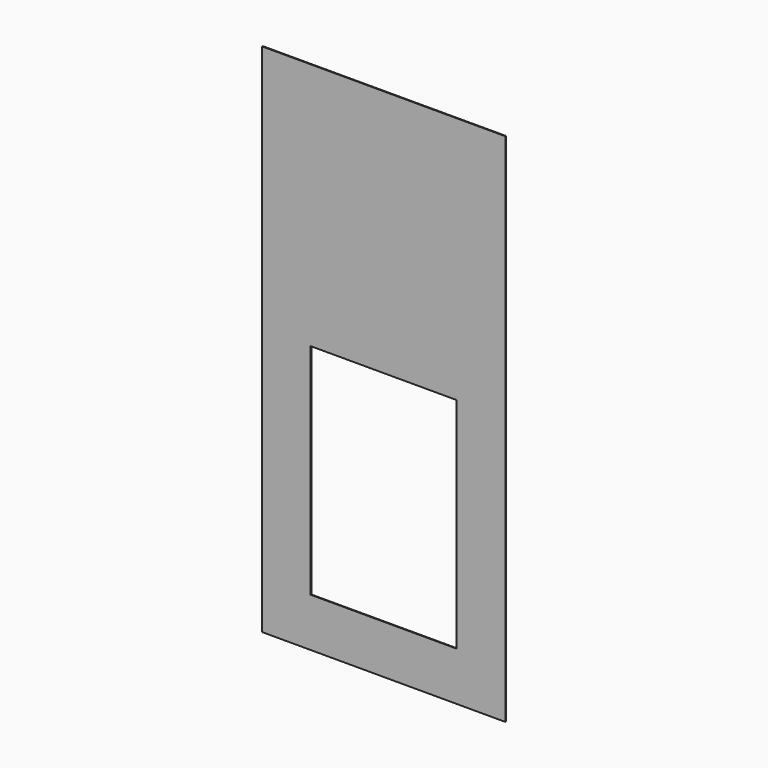
from build123d import *

# Parameters (mm, degrees)
F0_W     = 500
F0_H     = 1060
F1_DEPTH = 1.5
F2_W     = 300
F2_H     = 50
F2_H_2   = 400
F3_DEPTH = 25


with BuildPart() as f1:
    # F0 (on Front) → F1 (new body)
    with BuildSketch(Plane.XZ):
        Rectangle(F0_W, F0_H)
        Rectangle(F0_W, F0_H)
    extrude(amount=F1_DEPTH)

    # F2 (on face) → F3 (cut)
    with BuildSketch(Plane.XZ.offset(1.5)):
        with Locations((0, -5)):
            Rectangle(F2_W, F2_H)
        with Locations((0, -230)):
            Rectangle(F2_W, F2_H_2)
    extrude(amount=-F3_DEPTH, mode=Mode.SUBTRACT)


solid = f1.part
